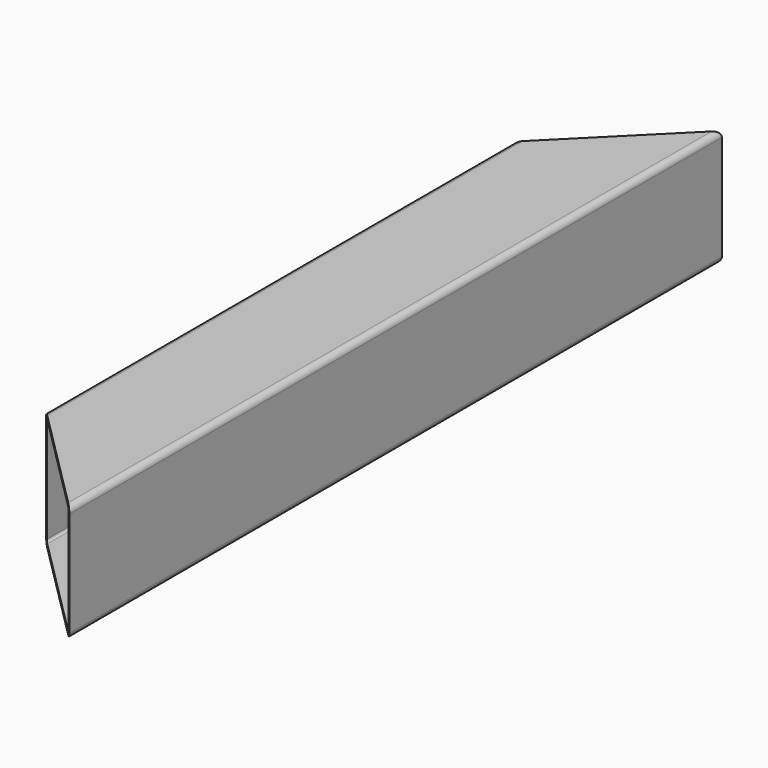
from build123d import *

# Parameters (mm, degrees)
F1_DEPTH = 700
F4_DEPTH = 100.001
F5_DEPTH = 100.001


with BuildPart() as f1:
    # F0 (on Front) → F1 (new body)
    with BuildSketch(Plane.XZ):
        with BuildLine():
            ThreePointArc((50, 45), (48.5355339059, 48.5355339059), (45, 50))
            Line((45, 50), (-45, 50))
            ThreePointArc((-45, 50), (-48.5355339059, 48.5355339059), (-50, 45))
            Line((-50, 45), (-50, -45))
            ThreePointArc((-50, -45), (-48.5355339059, -48.5355339059), (-45, -50))
            Line((-45, -50), (45, -50))
            ThreePointArc((45, -50), (48.5355339059, -48.5355339059), (50, -45))
            Line((50, -45), (50, 45))
        make_face()
        with BuildLine():
            ThreePointArc((-47, 45), (-46.4142135624, 46.4142135624), (-45, 47))
            Line((-45, 47), (45, 47))
            ThreePointArc((45, 47), (46.4142135624, 46.4142135624), (47, 45))
            Line((47, 45), (47, -45))
            ThreePointArc((47, -45), (46.4142135624, -46.4142135624), (45, -47))
            Line((45, -47), (-45, -47))
            ThreePointArc((-45, -47), (-46.4142135624, -46.4142135624), (-47, -45))
            Line((-47, -45), (-47, 45))
        make_face(mode=Mode.SUBTRACT)
    extrude(amount=-F1_DEPTH)

    # F3 (on offset) → F4 (cut, through all)
    with BuildSketch(Plane.XY.offset(50)):
        Polygon((-50, 100), (-50, 0), (50, 0), align=None)
    extrude(amount=-F4_DEPTH, mode=Mode.SUBTRACT)

    # F3 (on offset) → F5 (cut, through all)
    with BuildSketch(Plane.XY.offset(50)):
        Polygon((-50, 100), (-50, 0), (50, 0), align=None)
        Polygon((50, 700), (-50, 700), (-50, 600), align=None)
    extrude(amount=-F5_DEPTH, mode=Mode.SUBTRACT)


solid = f1.part
